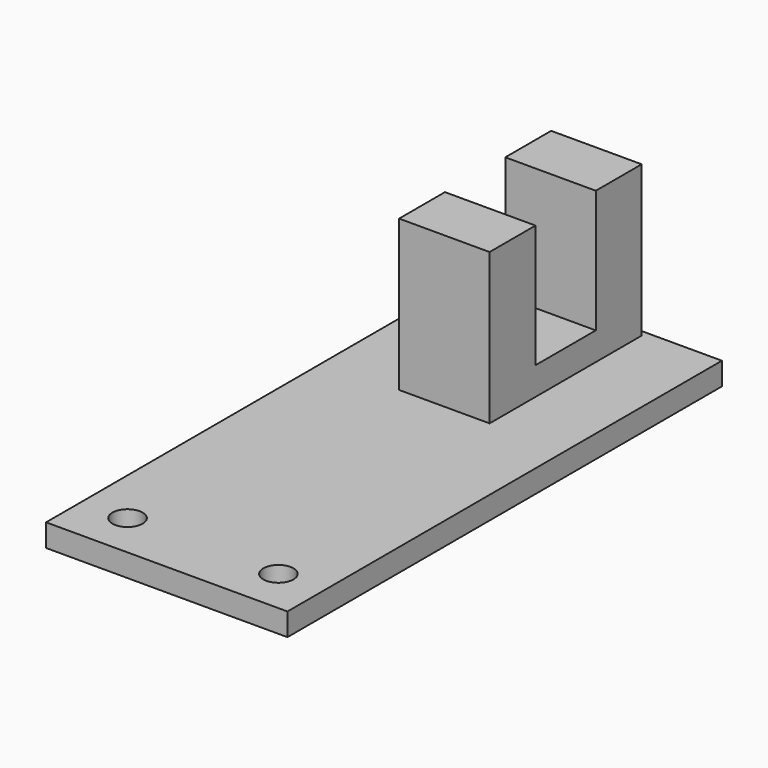
from build123d import *

# Parameters (mm, degrees)
CYLINDER1054_R           = 1
CYLINDER1054_DEPTH       = 5
CYLINDER1055_R           = 1
CYLINDER1055_DEPTH       = 5
BOX258_W                 = 36
BOX258_H                 = 16
BOX258_DEPTH             = 1.5
PAD042_DEPTH             = 3
CLONE020_PLACEMENT_ANGLE = -90


with BuildPart() as cylinder1062:
    # Cylinder1054 → Cylinder1054 (new body)
    with BuildSketch(Plane(origin=(33, 3, 0), x_dir=(1, 0, 0), z_dir=(0, 0, 1))):
        Circle(CYLINDER1054_R)
    extrude(amount=CYLINDER1054_DEPTH)


with BuildPart() as fusion151:
    # Cylinder1055 → Cylinder1055 (new body)
    with BuildSketch(Plane(origin=(33, 13, 0), x_dir=(1, 0, 0), z_dir=(0, 0, 1))):
        Circle(CYLINDER1055_R)
    extrude(amount=CYLINDER1055_DEPTH)

    # Fusion151: union Cylinder1062
    add(cylinder1062.part)


with BuildPart() as cut:
    # Box258 → Box258 (new body)
    with BuildSketch(Plane.XY):
        with Locations((18, 8)):
            Rectangle(BOX258_W, BOX258_H)
    extrude(amount=BOX258_DEPTH)

    # Cut: cut Fusion151
    add(fusion151.part, mode=Mode.SUBTRACT)


with BuildPart() as obj1:
    # Sketch067 → Pad042 (new body, symmetric)
    with BuildSketch(Plane(origin=(13, 8, 1.5), x_dir=(0, 0, 1), z_dir=(0, -1, 0))):
        Polygon((0, 0), (10, 0), (10, 3.8), (1.85, 3.8), (1.85, 8.8), (10, 8.8), (10, 12.6), (0, 12.6), align=None)
    extrude(amount=PAD042_DEPTH, both=True)

    # Fusion152: union Cut
    add(cut.part)


with BuildPart() as obj1_1:
    # Clone020 placement: moved
    add(obj1.part.moved(Location((-8, 61.0689, 26.1))).rotate(Axis((-8, 61.0689, 26.1), (0, 0, 1)), CLONE020_PLACEMENT_ANGLE))


solid = obj1_1.part
